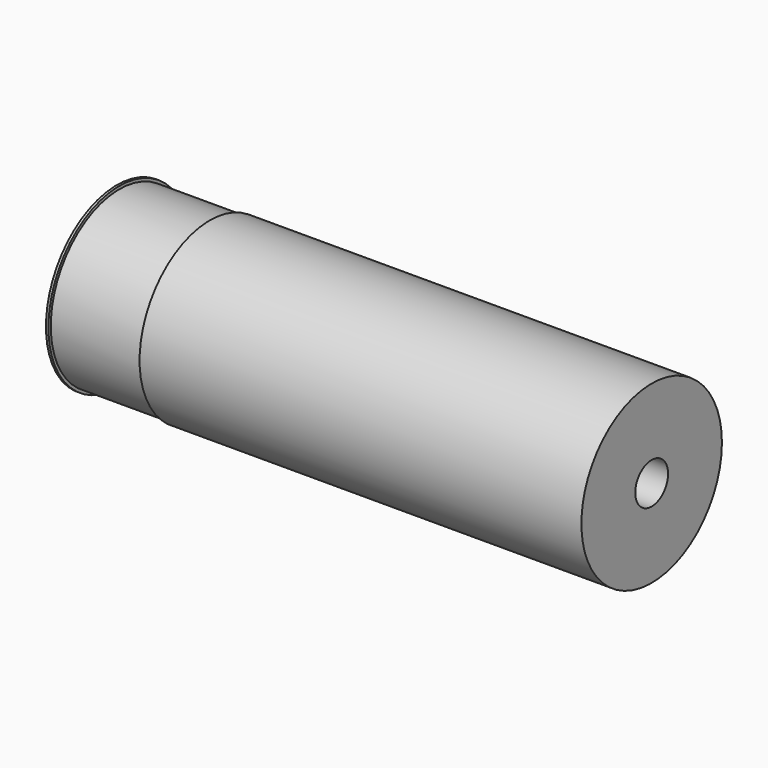
from build123d import *

# Parameters (mm, degrees)
F0_W     = 41.9983193278
F0_H     = 8.3485795185
F2_W     = 8.5956929252
F2_H     = 8.1586567685
F4_W     = 0.2334481105
F4_H     = 8.4266876802
F6_R     = 1.9513814008
F7_DEPTH = 54.71847


with BuildPart() as f1:
    # F0 (on Top) → F1 (revolve)
    with BuildSketch(Plane.XY):
        with Locations((20.9991596639, 4.1742897592)):
            Rectangle(F0_W, F0_H)
    revolve(axis=Axis((20.9991596639, 0, 0), (1, 0, 0)))

    # F2 (on Top) → F3 (revolve)
    with BuildSketch(Plane.XY):
        with Locations((-4.2978464626, 4.0793283843)):
            Rectangle(F2_W, F2_H)
    revolve(axis=Axis((-4.2978464626, 0, 0), (-1, 0, 0)))


with BuildPart() as f5:
    # F4 (on Top) → F5 (revolve)
    with BuildSketch(Plane.XY):
        with Locations((-8.7230424397, 4.2133438401)):
            Rectangle(F4_W, F4_H)
    revolve(axis=Axis((-8.7230424397, 0, 0), (-1, 0, 0)))


with BuildPart() as f7_tool:
    # F6 (on face) → F7 (new body)
    with BuildSketch(Plane.YZ.offset(41.9983193278)):
        Circle(F6_R)
    extrude(amount=-F7_DEPTH)


with BuildPart() as f1_1:
    add(f1.part)

    # F7: cut by f7_tool
    add(f7_tool.part, mode=Mode.SUBTRACT)


with BuildPart() as f5_1:
    add(f5.part)

    # F7: cut by f7_tool
    add(f7_tool.part, mode=Mode.SUBTRACT)


solid = Compound([f1_1.part, f5_1.part])
